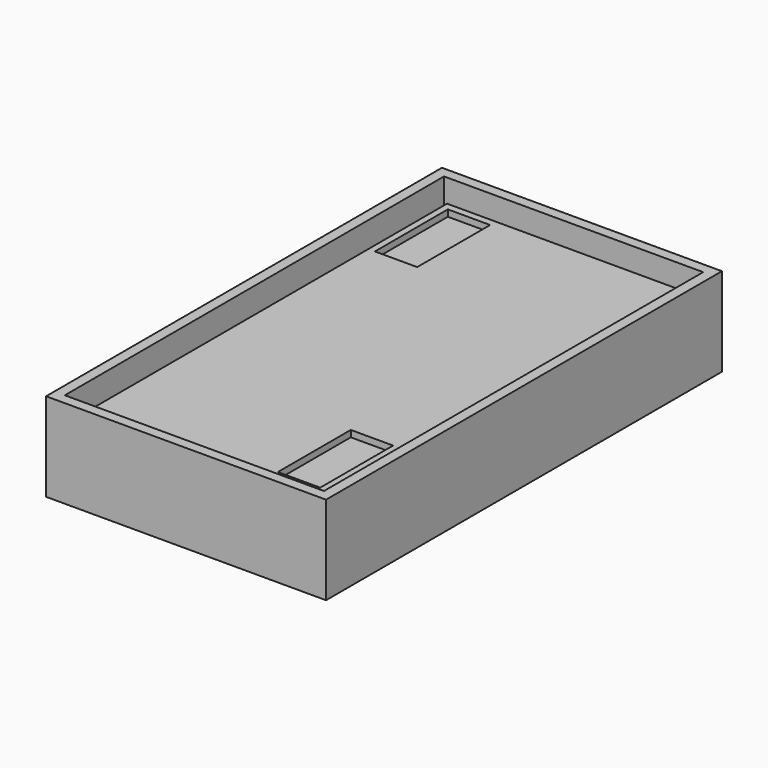
from build123d import *

# Parameters (mm, degrees)
F0_W     = 35.2
F0_H     = 68.2
F1_DEPTH = 10
F2_W     = 6.5
F2_H     = 14
F2_W_2   = 6.4999983017
F3_DEPTH = 1
F4_W     = 43
F4_H     = 76
F5_DEPTH = 1.6
F6_W     = 43
F6_H     = 76
F6_W_2   = 39.8
F6_H_2   = 72.8
F7_DEPTH = 12


with BuildPart() as f1:
    # F0 (on Top) → F1 (new body)
    with BuildSketch(Plane.XY):
        Rectangle(F0_W, F0_H)
    extrude(amount=F1_DEPTH)

    # F2 (on face) → F3 (cut)
    with BuildSketch(Plane.XY.offset(10)):
        with Locations((-13.35, 26)):
            Rectangle(F2_W, F2_H)
        with Locations((13.3499991509, -26)):
            Rectangle(F2_W_2, F2_H)
    extrude(amount=-F3_DEPTH, mode=Mode.SUBTRACT)


with BuildPart() as f5:
    # F4 (on face) → F5 (new body)
    with BuildSketch(Plane(origin=(0, 0, 0), x_dir=(1, 0, 0), z_dir=(0, 0, -1))):
        Rectangle(F4_W, F4_H)
    extrude(amount=F5_DEPTH)

    # F6 (on face) → F7 (join)
    with BuildSketch(Plane.XY):
        Rectangle(F6_W, F6_H)
        Rectangle(F6_W_2, F6_H_2, mode=Mode.SUBTRACT)
    extrude(amount=F7_DEPTH)


solid = Compound([f1.part, f5.part])
